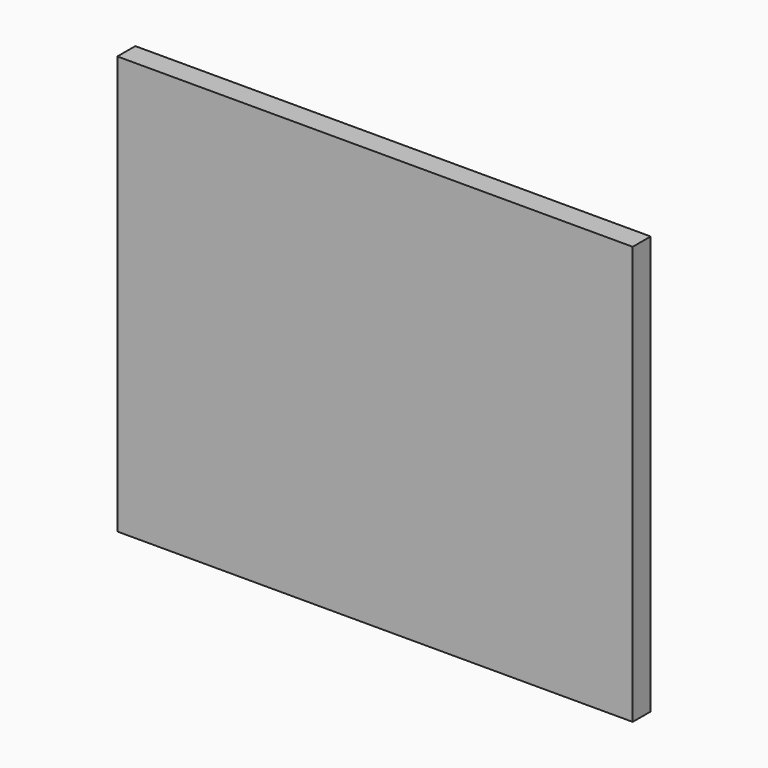
from build123d import *

# Parameters (mm, degrees)
F0_W     = 438.15
F0_H     = 355.6
F1_DEPTH = 19.05
F0_W_2   = 8.1390114404
F0_H_2   = 77.3205896731


with BuildPart() as f1:
    # F0 (on Front) → F1 (new body)
    with BuildSketch(Plane.XZ):
        with Locations((219.075, 177.8)):
            Rectangle(F0_W, F0_H)
    extrude(amount=F1_DEPTH)


with BuildPart() as f1b:
    # F0 (on Front) → F1, piece 2 (new body)
    with BuildSketch(Plane.XZ):
        with Locations((215.6837597177, -76.6423418882)):
            Rectangle(F0_W_2, F0_H_2)
    extrude(amount=F1_DEPTH)


solid = f1.part
